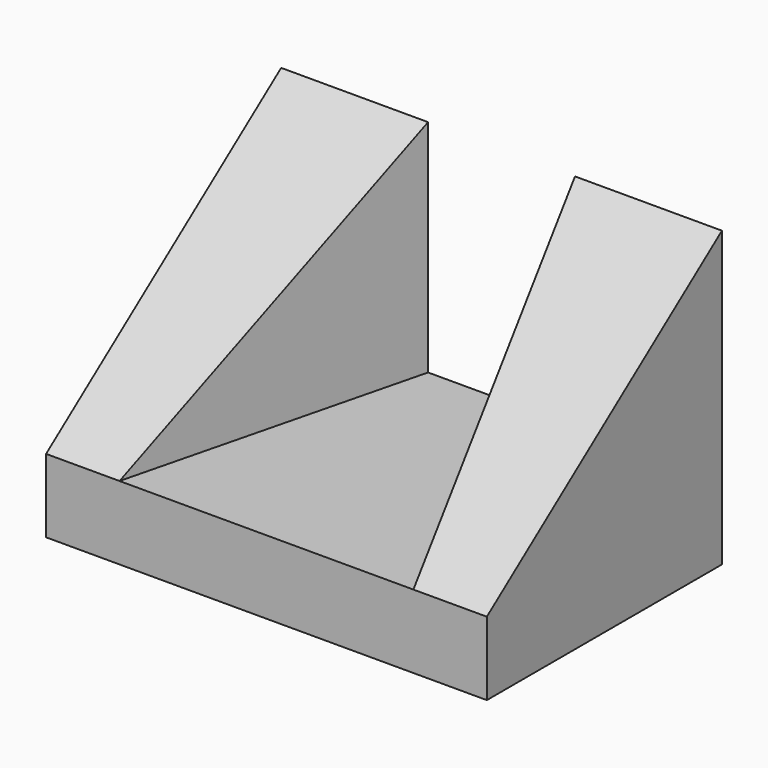
from build123d import *

# Parameters (mm, degrees)
F0_W     = 60
F0_H     = 40
F1_DEPTH = 40
F3_DEPTH = 30
F5_DEPTH = 30
F7_DEPTH = 20
F9_DEPTH = 20


with BuildPart() as f1:
    # F0 (on Front) → F1 (new body)
    with BuildSketch(Plane.XZ):
        with Locations((30, 20)):
            Rectangle(F0_W, F0_H)
    extrude(amount=F1_DEPTH)

    # F2 (on face) → F3 (cut)
    with BuildSketch(Plane.XY.offset(40)):
        Polygon((30, 0), (30, -40), (50, -40), (40, 0), align=None)
    extrude(amount=-F3_DEPTH, mode=Mode.SUBTRACT)

    # F4 (on face) → F5 (cut)
    with BuildSketch(Plane.XY.offset(40)):
        Polygon((30, -40), (30, 0), (20, 0), (10, -40), align=None)
    extrude(amount=-F5_DEPTH, mode=Mode.SUBTRACT)

    # F6 (on face) → F7 (cut)
    with BuildSketch(Plane.YZ.offset(60)):
        Polygon((-40, 10), (0, 40), (-40, 40), align=None)
    extrude(amount=-F7_DEPTH, mode=Mode.SUBTRACT)

    # F8 (on face) → F9 (cut)
    with BuildSketch(Plane(origin=(0, 0, 0), x_dir=(0, -1, 0), z_dir=(-1, 0, 0))):
        Polygon((40, 40), (0, 40), (40, 10), align=None)
    extrude(amount=-F9_DEPTH, mode=Mode.SUBTRACT)


solid = f1.part
